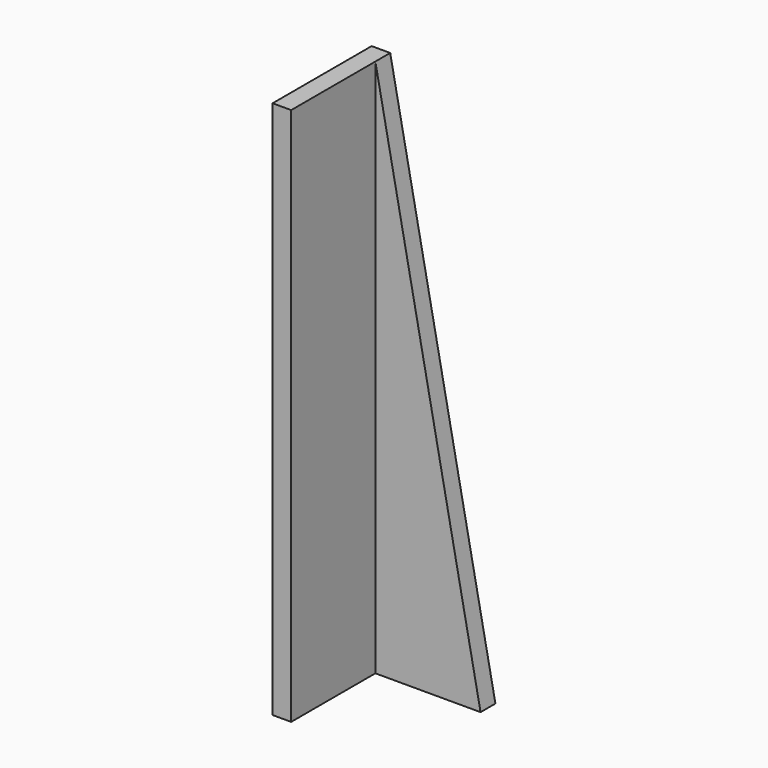
from build123d import *

# Parameters (mm, degrees)
F1_DEPTH = 25.4
F2_W     = 21.580409
F2_H     = 21.59
F3_DEPTH = 127
F5_DEPTH = 25.4


with BuildPart() as f1:
    # F0 (on Front) → F1 (new body)
    with BuildSketch(Plane.XZ):
        Polygon((-19.42512, -47.146455), (-44.815529, 63.343545), (-44.815529, -47.146455), align=None)
        Polygon((-19.42512, 63.343545), (-44.815529, 63.343545), (-19.42512, -47.146455), align=None)
        Polygon((-19.42512, -47.146455), (-44.815529, 63.343545), (-44.815529, -47.146455), align=None)
    extrude(amount=F1_DEPTH)

    # F2 (on face) → F3 (cut)
    with BuildSketch(Plane.XY.offset(63.343545)):
        with Locations((-30.215324, -14.605)):
            Rectangle(F2_W, F2_H)
    extrude(amount=-F3_DEPTH, mode=Mode.SUBTRACT)

    # F4 (on face) → F5 (cut)
    with BuildSketch(Plane.XZ.offset(3.81)):
        Polygon((-19.42512, 63.343545), (-41.005529, 63.343545), (-19.42512, -47.146455), align=None)
    extrude(amount=-F5_DEPTH, mode=Mode.SUBTRACT)


solid = f1.part
